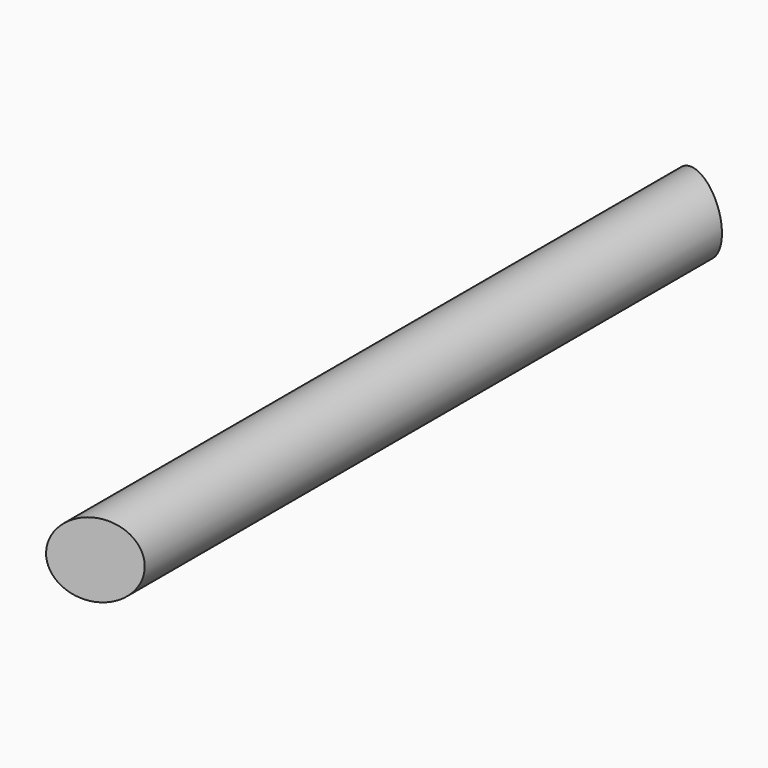
from build123d import *

# Parameters (mm, degrees)
F1_R      = 12.7
F2_DEPTH  = 268.2875
F6_W      = 114.097729
F6_H      = 88.5094
F7_DEPTH  = 25.4
F11_W     = 145.65833
F11_H     = 82.475946
F12_DEPTH = 25.4


with BuildPart() as f2:
    # F1 (on face) → F2 (new body)
    with BuildSketch(Plane.XZ):
        Circle(F1_R)
    extrude(amount=F2_DEPTH)

    # F6 (on face) → F7 (cut)
    with BuildSketch(Plane(origin=(92.994083, -224.507577, 0), x_dir=(-0.92388, -0.382683, 0), z_dir=(-0.382683, 0.92388, 0))):
        with Locations((118.185877, 2.949333)):
            Rectangle(F6_W, F6_H)
    extrude(amount=-F7_DEPTH, mode=Mode.SUBTRACT)

    # F11 (on face) → F12 (cut)
    with BuildSketch(Plane(origin=(-1.859872, -4.490128, 0), x_dir=(-0.92388, 0.382683, 0), z_dir=(0.382683, 0.92388, 0))):
        Rectangle(F11_W, F11_H)
    extrude(amount=F12_DEPTH, mode=Mode.SUBTRACT)


solid = f2.part
